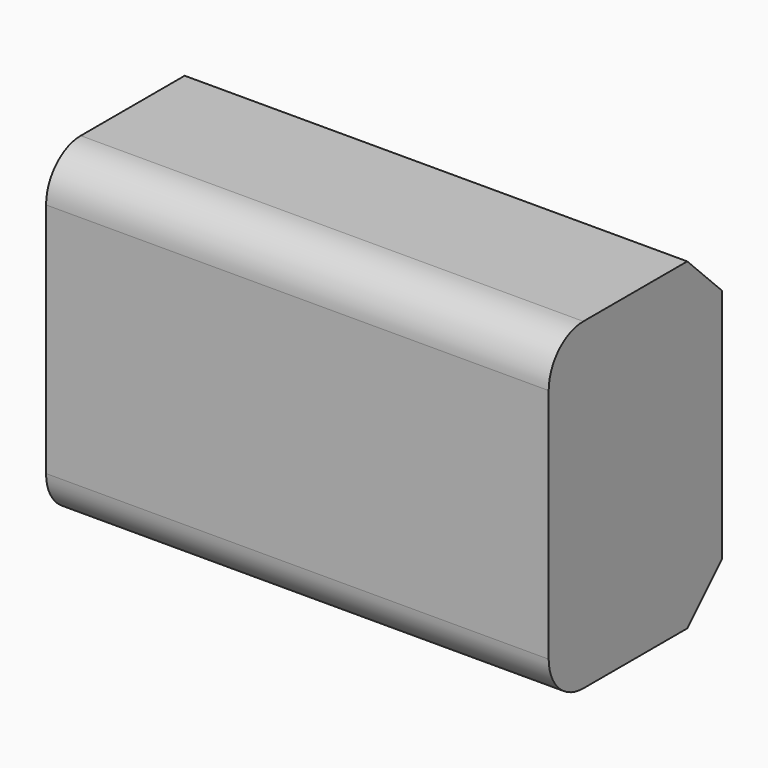
from build123d import *

# Parameters (mm, degrees)
F0_W     = 58.954738
F0_H     = 37.899476
F1_DEPTH = 25.4
F2_R     = 5.08
F3_SIZE  = 5.08


with BuildPart() as f1:
    # F0 (on Front) → F1 (new body)
    with BuildSketch(Plane.XZ):
        Rectangle(F0_W, F0_H)
    extrude(amount=F1_DEPTH)

    # F2
    f2_edges = [f1.edges().sort_by_distance(p)[0] for p in [
        (0, -25.4, 18.949738),
        (0, -25.4, -18.949738),
    ]]
    fillet(f2_edges, radius=F2_R)

    # F3
    f3_edges = [f1.edges().sort_by_distance(p)[0] for p in [
        (0, 0, -18.949738),
        (0, 0, 18.949738),
    ]]
    chamfer(f3_edges, length=F3_SIZE)


solid = f1.part
